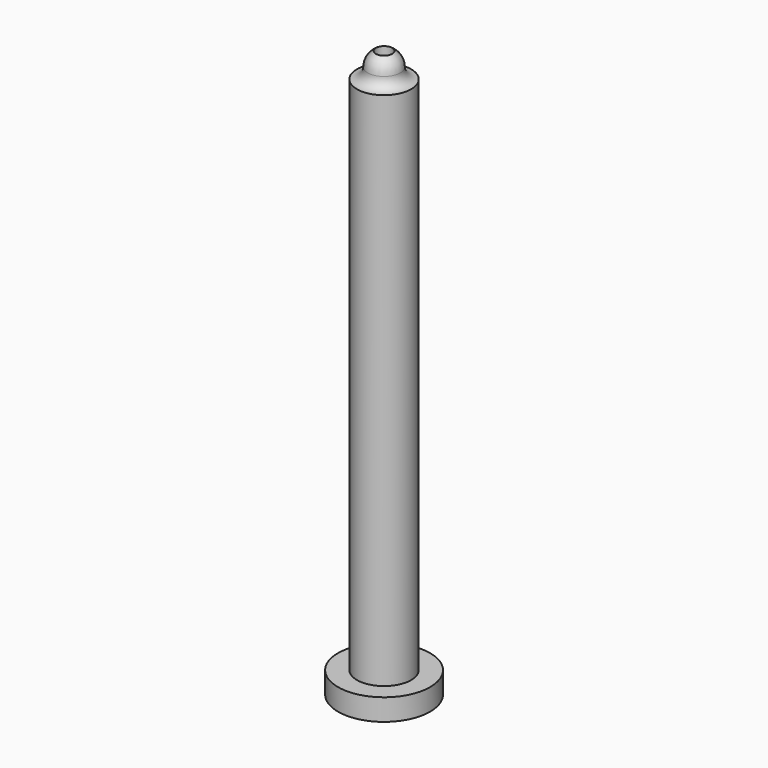
from build123d import *

# Parameters (mm, degrees)
F0_R     = 8.5
F1_DEPTH = 4
F2_R     = 5
F3_DEPTH = 100
F8_R     = 1.5
F9_DEPTH = 109.5


with BuildPart() as f1:
    # F0 (on Top) → F1 (new body)
    with BuildSketch(Plane.XY):
        Circle(F0_R)
    extrude(amount=F1_DEPTH)

    # F2 (on Top) → F3 (join)
    with BuildSketch(Plane.XY):
        Circle(F2_R)
    extrude(amount=F3_DEPTH)

    # F4 (on Right) → F5 (revolve)
    with BuildSketch(Plane.YZ):
        with BuildLine():
            Line((3, 102), (0, 102))
            Line((0, 102), (0, 100))
            Line((0, 100), (5, 100))
            ThreePointArc((5, 100), (3.585786, 100.585786), (3, 102))
        make_face()
    revolve(axis=Axis((0, 0, 101), (0, 0, -1)))

    # F6 (on Right) → F7 (revolve)
    with BuildSketch(Plane.YZ):
        with BuildLine():
            Line((0, 105), (0, 102))
            Line((0, 102), (3, 102))
            ThreePointArc((3, 102), (2.12132, 104.12132), (0, 105))
        make_face()
    revolve(axis=Axis((0, 0, 103.5), (0, 0, 1)))

    # F8 (on Top) → F9 (cut)
    with BuildSketch(Plane.XY):
        Circle(F8_R)
    extrude(amount=F9_DEPTH, mode=Mode.SUBTRACT)


solid = f1.part
